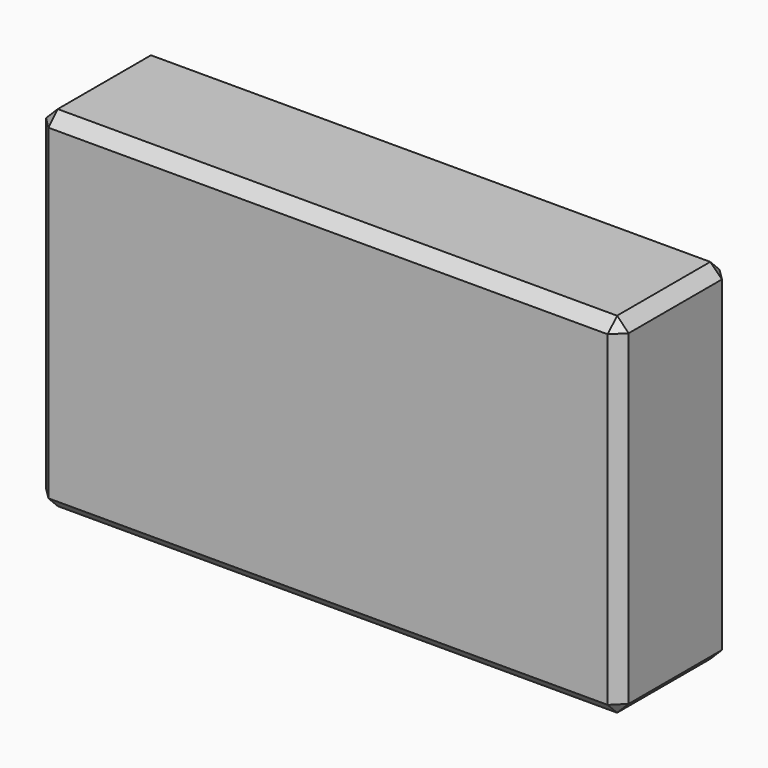
from build123d import *

# Parameters (mm, degrees)
F0_W     = 50
F0_H     = 30
F1_DEPTH = 6
F3_D     = 6.6
F3_DEPTH = 15
F3_TIP   = 1.9828400428
F4_SIZE  = 1


with BuildPart() as f1:
    # F0 (on Front) → F1 (new body, symmetric)
    with BuildSketch(Plane.XZ):
        Rectangle(F0_W, F0_H)
    extrude(amount=F1_DEPTH, both=True)

    # F3
    with Locations(Plane(origin=(0, 0, -15), x_dir=(1, 0, 0), z_dir=(0, 0, -1))):
        with Locations((-15, 0), (15, 0)):
            Hole(F3_D / 2, depth=F3_DEPTH)
            with Locations((0, 0, -(F3_DEPTH + F3_TIP / 2))):  # 118° drill point
                Cone(0, F3_D / 2, F3_TIP, mode=Mode.SUBTRACT)

    # F4
    f4_edges = [f1.edges().sort_by_distance(p)[0] for p in [
        (0, -6, -15),
        (25, -6, 0),
        (0, -6, 15),
        (-25, -6, 0),
        (25, 0, 15),
        (0, 6, 15),
        (-25, 0, 15),
        (25, 0, -15),
        (25, 6, 0),
        (0, 6, -15),
        (-25, 6, 0),
        (-25, 0, -15),
        (-18.3, 0, -15),
        (11.7, 0, -15),
    ]]
    chamfer(f4_edges, length=F4_SIZE)


solid = f1.part
